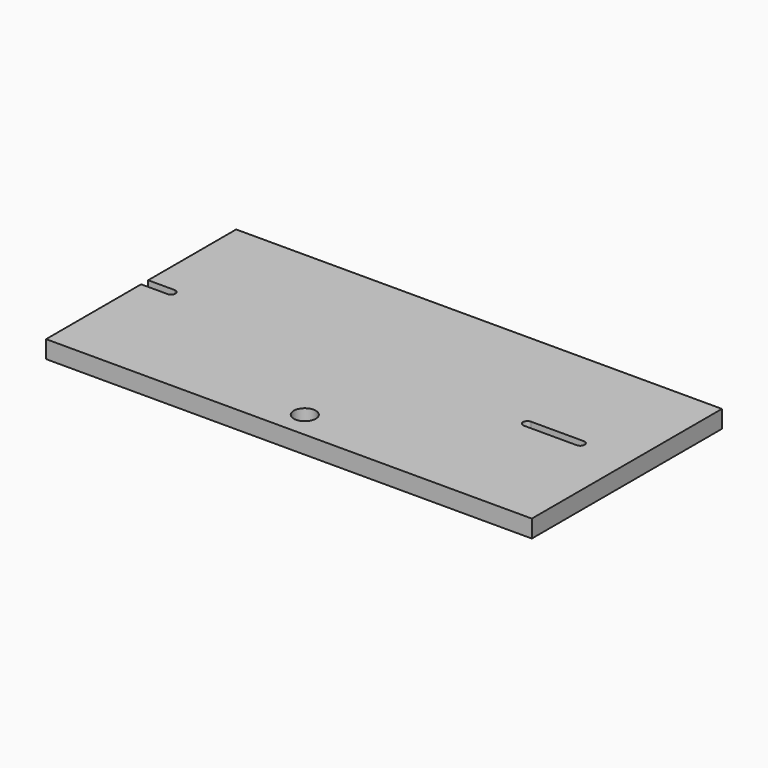
from build123d import *

# Parameters (mm, degrees)
F1_DEPTH = 25.4
F2_R     = 15.875
F3_DEPTH = 25.401


with BuildPart() as f1:
    # F0 (on Top) → F1 (new body)
    with BuildSketch(Plane.XY):
        with BuildLine():
            Line((353.500903, 182.437663), (-347.539097, 182.437663))
            Line((-347.539097, 182.437663), (-347.539097, 23.687663))
            Line((-347.539097, 23.687663), (-309.439097, 23.687663))
            ThreePointArc((-309.439097, 23.687663), (-303.089106, 17.348244), (-309.417936, 10.987698))
            ThreePointArc((-309.417936, 10.987698), (-309.439097, 10.987663), (-309.460259, 10.987698))
            Line((-309.460259, 10.987698), (-347.539097, 10.987698))
            Line((-347.539097, 10.987698), (-347.539097, -160.462337))
            Line((-347.539097, -160.462337), (353.500903, -160.462337))
            Line((353.500903, -160.462337), (353.500903, 182.437663))
        make_face()
        with BuildLine():
            ThreePointArc((204.910903, 10.987663), (198.560903, 17.337663), (204.910903, 23.687663))
            Line((204.910903, 23.687663), (281.110903, 23.687663))
            ThreePointArc((281.110903, 23.687663), (287.460903, 17.337663), (281.110903, 10.987663))
            Line((281.110903, 10.987663), (204.910903, 10.987663))
        make_face(mode=Mode.SUBTRACT)
    extrude(amount=F1_DEPTH)

    # F2 (on face) → F3 (cut, through all)
    with BuildSketch(Plane.XY.offset(25.4)):
        with Locations((-4.639097, -122.362337)):
            Circle(F2_R)
    extrude(amount=-F3_DEPTH, mode=Mode.SUBTRACT)


solid = f1.part
